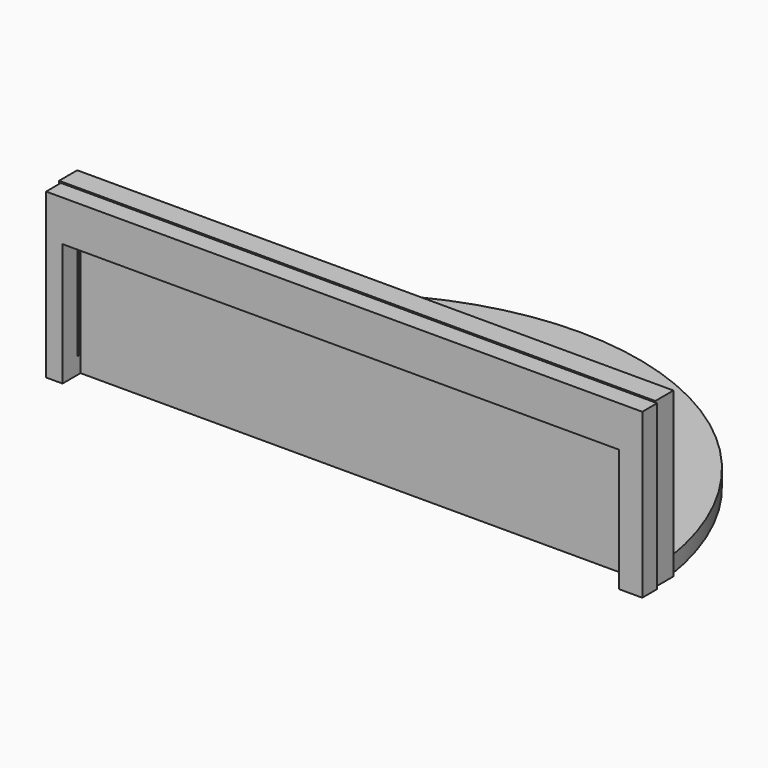
from build123d import *

# Parameters (mm, degrees)
F1_DEPTH = 2.54
F2_W     = 92.49156
F2_H     = 2.878541
F3_DEPTH = 25.4
F4_W     = 92.49156
F4_H     = 3.52044
F5_DEPTH = 25.4
F6_W     = 86.36
F6_H     = 3.499337
F7_DEPTH = 19.05


with BuildPart() as f1:
    # F0 (on Top) → F1 (new body)
    with BuildSketch(Plane.XY):
        with BuildLine():
            Line((-45.902735, 0), (45.902735, 0))
            ThreePointArc((45.902735, 0), (0, 45.902735), (-45.902735, 0))
        make_face()
    extrude(amount=F1_DEPTH)

    # F2 (on Top) → F3 (join)
    with BuildSketch(Plane.XY):
        with Locations((0.16002, 1.43927)):
            Rectangle(F2_W, F2_H)
    extrude(amount=F3_DEPTH)

    # F4 (on Top) → F5 (join)
    with BuildSketch(Plane.XY):
        with Locations((-0.37846, 4.958801)):
            Rectangle(F4_W, F4_H)
    extrude(amount=F5_DEPTH)

    # F6 (on Top) → F7 (cut)
    with BuildSketch(Plane.XY):
        with Locations((-0.358611, 1.749668)):
            Rectangle(F6_W, F6_H)
    extrude(amount=F7_DEPTH, mode=Mode.SUBTRACT)


solid = f1.part
